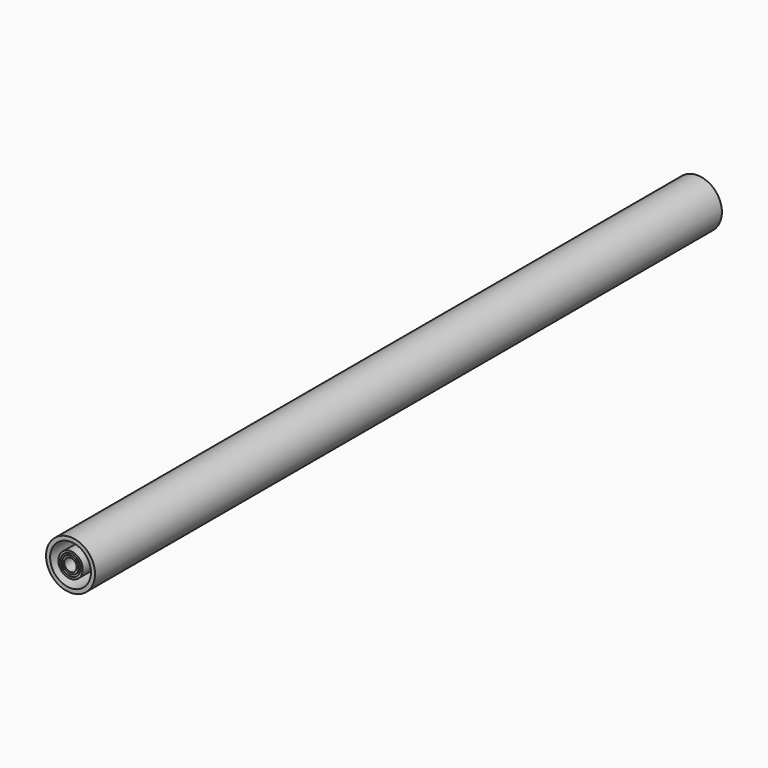
from build123d import *

# Parameters (mm, degrees)
F0_R     = 3.175
F0_R_2   = 2.413
F1_DEPTH = 304.8
F0_R_3   = 4.7625
F0_R_4   = 3.9497
F0_R_5   = 9.525
F0_R_6   = 7.9375


with BuildPart() as f1:
    # F0 (on Front) → F1 (new body)
    with BuildSketch(Plane.XZ):
        Circle(F0_R)
        Circle(F0_R_2, mode=Mode.SUBTRACT)
    extrude(amount=F1_DEPTH)


with BuildPart() as f1b:
    # F0 (on Front) → F1, piece 2 (new body)
    with BuildSketch(Plane.XZ):
        Circle(F0_R_3)
        Circle(F0_R_4, mode=Mode.SUBTRACT)
    extrude(amount=F1_DEPTH)


with BuildPart() as f1c:
    # F0 (on Front) → F1, piece 3 (new body)
    with BuildSketch(Plane.XZ):
        Circle(F0_R_5)
        Circle(F0_R_6, mode=Mode.SUBTRACT)
    extrude(amount=F1_DEPTH)


solid = Compound([f1.part, f1b.part, f1c.part])
